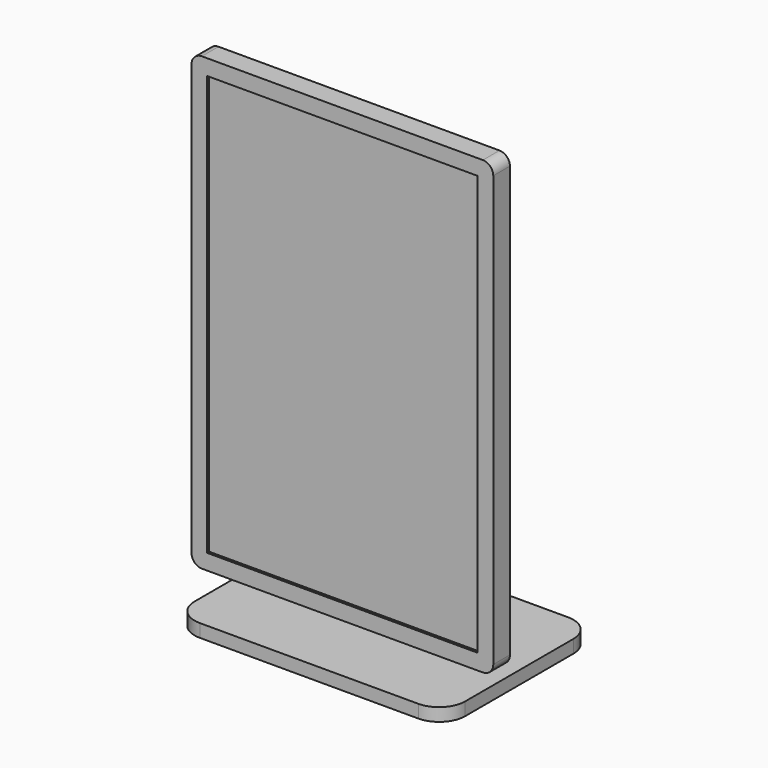
from build123d import *

# Parameters (mm, degrees)
F0_W      = 330.2095
F0_H      = 512.4196
F1_DEPTH  = 25.4
F2_DEPTH  = 22.225
F3_W      = 101.6
F3_H      = 101.6
F4_DEPTH  = 12.7
F6_DEPTH  = 38.1
F7_W      = 228.6
F7_H      = 15.875
F8_DEPTH  = 127
F9_W      = 228.6
F9_H      = 15.875
F10_DEPTH = 127
F11_R     = 31.75


with BuildPart() as f1:
    # F0 (on Front) → F1 (new body)
    with BuildSketch(Plane.XZ):
        with BuildLine():
            Line((184.15475, -262.5598), (184.15475, 262.5598))
            ThreePointArc((184.15475, 262.5598), (180.435006, 271.540056), (171.45475, 275.2598))
            Line((171.45475, 275.2598), (-171.45475, 275.2598))
            ThreePointArc((-171.45475, 275.2598), (-180.435006, 271.540056), (-184.15475, 262.5598))
            Line((-184.15475, 262.5598), (-184.15475, -262.5598))
            ThreePointArc((-184.15475, -262.5598), (-180.435006, -271.540056), (-171.45475, -275.2598))
            Line((-171.45475, -275.2598), (171.45475, -275.2598))
            ThreePointArc((171.45475, -275.2598), (180.435006, -271.540056), (184.15475, -262.5598))
        make_face()
        Rectangle(F0_W, F0_H, mode=Mode.SUBTRACT)
    extrude(amount=F1_DEPTH)

    # F0 (on Front) → F2 (join)
    with BuildSketch(Plane.XZ):
        Rectangle(F0_W, F0_H)
    extrude(amount=F2_DEPTH)

    # F3 (on face) → F4 (join)
    with BuildSketch(Plane.XZ):
        Rectangle(F3_W, F3_H)
    extrude(amount=-F4_DEPTH)

    # F5 (on Right) → F6 (join, symmetric)
    with BuildSketch(Plane.YZ):
        Polygon((12.7, 31.75), (12.7, -31.75), (36.226559, -300.6598), (-76.2, -300.6598), (-76.2, -316.5348), (152.4, -316.5348), (152.4, -300.6598), (76.2, -300.6598), align=None)
    extrude(amount=F6_DEPTH, both=True)

    # F7 (on face) → F8 (join)
    with BuildSketch(Plane.YZ.offset(38.1)):
        with Locations((38.1, -308.5973)):
            Rectangle(F7_W, F7_H)
    extrude(amount=F8_DEPTH)

    # F9 (on face) → F10 (join)
    with BuildSketch(Plane(origin=(-38.1, 0, 0), x_dir=(0, -1, 0), z_dir=(-1, 0, 0))):
        with Locations((-38.1, -308.5973)):
            Rectangle(F9_W, F9_H)
    extrude(amount=F10_DEPTH)

    # F11
    f11_edges = [f1.edges().sort_by_distance(p)[0] for p in [
        (-165.1, 152.4, -308.5973),
        (165.1, 152.4, -308.5973),
        (165.1, -76.2, -308.5973),
        (-165.1, -76.2, -308.5973),
    ]]
    fillet(f11_edges, radius=F11_R)


solid = f1.part
